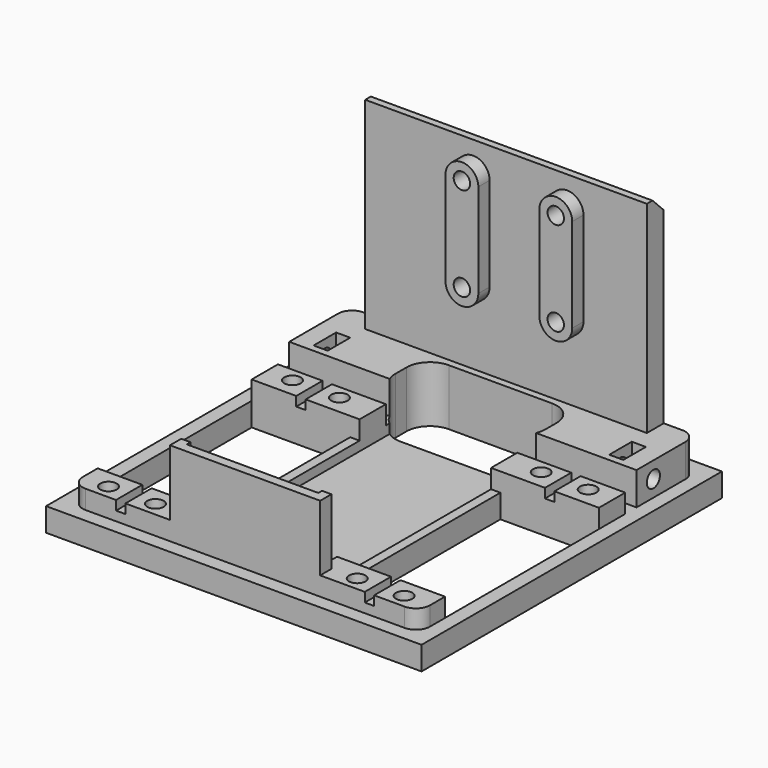
from build123d import *

# Parameters (mm, degrees)
SKETCH011_W             = 10
SKETCH011_H             = 4
PAD006_DEPTH            = 10
BOX020_W                = 6
BOX020_H                = 38
BOX020_DEPTH            = 68
CYLINDER016_R           = 1.75
CYLINDER016_DEPTH       = 31
CYLINDER016_PITCH_ANGLE = 90
CYLINDER017_R           = 1.75
CYLINDER017_DEPTH       = 31
CYLINDER017_PITCH_ANGLE = 90
CYLINDER015_R           = 1.75
CYLINDER015_DEPTH       = 31
CYLINDER015_PITCH_ANGLE = 90
CYLINDER024_R           = 1.75
CYLINDER024_DEPTH       = 31
CYLINDER024_PITCH_ANGLE = 90
PAD_DEPTH               = 5
BOX022_W                = 61
BOX022_H                = 28
BOX022_DEPTH            = 44
BOX021_W                = 13
BOX021_H                = 32
BOX021_DEPTH            = 17
FILLET003_R             = 5
BOX019_W                = 4.5
BOX019_H                = 60
BOX019_DEPTH            = 54
CYLINDER014_R           = 1.75
CYLINDER014_DEPTH       = 31
CYLINDER014_ROLL_ANGLE  = 90
CYLINDER013_R           = 1.75
CYLINDER013_DEPTH       = 31
CYLINDER013_ROLL_ANGLE  = 90
BOX016_W                = 6
BOX016_H                = 3
BOX016_DEPTH            = 12
BOX014_W                = 6
BOX014_H                = 3
BOX014_DEPTH            = 12
BOX015_W                = 16
BOX015_H                = 74
BOX015_DEPTH            = 12
BOX013_W                = 41
BOX013_H                = 21
BOX013_DEPTH            = 43
BOX012_W                = 41
BOX012_H                = 21
BOX012_DEPTH            = 43
CYLINDER006_R           = 1.75
CYLINDER006_DEPTH       = 21.5
CYLINDER006_PITCH_ANGLE = 90
CYLINDER007_R           = 3
CYLINDER007_DEPTH       = 21.5
CYLINDER007_PITCH_ANGLE = 90
FUSION007_PITCH_ANGLE   = 90
FUSION008_PITCH_ANGLE   = 90
FUSION006_PITCH_ANGLE   = 90
FUSION005_PITCH_ANGLE   = 90
BOX011_W                = 70
BOX011_H                = 2
BOX011_DEPTH            = 9
BOX010_W                = 7
BOX010_H                = 74
BOX010_DEPTH            = 9
BOX009_W                = 7
BOX009_H                = 74
BOX009_DEPTH            = 9
BOX008_W                = 80
BOX008_H                = 80
BOX008_DEPTH            = 5
BOX018_W                = 3
BOX018_H                = 32
BOX018_DEPTH            = 20
CHAMFER003_SIZE         = 3
FILLET006_R             = 3
CUT054_PLACEMENT_ANGLE  = -90


with BuildPart() as pad006:
    # Sketch011 → Pad006 (new body)
    with BuildSketch(Plane(origin=(70, 275, 66), x_dir=(0, 1, 0), z_dir=(0, 0, -1))):
        with Locations((-265.5, -19)):
            Rectangle(SKETCH011_W, SKETCH011_H)
        with Locations((-212.5, -19)):
            Rectangle(SKETCH011_W, SKETCH011_H)
        with Locations((-265.5, -68)):
            Rectangle(SKETCH011_W, SKETCH011_H)
        with Locations((-212.5, -68)):
            Rectangle(SKETCH011_W, SKETCH011_H)
    extrude(amount=PAD006_DEPTH)


with BuildPart() as cube035:
    # Box020 → Box020 (new body)
    with BuildSketch(Plane(origin=(-23.5, 17, 68), x_dir=(1, 0, 0), z_dir=(0, 0, 1))):
        with Locations((3, 19)):
            Rectangle(BOX020_W, BOX020_H)
    extrude(amount=BOX020_DEPTH)


with BuildPart() as cylinder094:
    # Cylinder016 → Cylinder016 (new body)
    with BuildSketch(Plane.XY):
        Circle(CYLINDER016_R)
    extrude(amount=CYLINDER016_DEPTH)


with BuildPart() as cylinder094_1:
    # Cylinder016 pitch: moved
    add(cylinder094.part.rotate(Axis((0, 0, 0), (0, 1, 0)), CYLINDER016_PITCH_ANGLE))


with BuildPart() as cylinder094_2:
    # Cylinder016 placement: moved
    add(cylinder094_1.part.moved(Location((-49.5, 49, 91.5))))


with BuildPart() as cylinder095:
    # Cylinder017 → Cylinder017 (new body)
    with BuildSketch(Plane.XY):
        Circle(CYLINDER017_R)
    extrude(amount=CYLINDER017_DEPTH)


with BuildPart() as cylinder095_1:
    # Cylinder017 pitch: moved
    add(cylinder095.part.rotate(Axis((0, 0, 0), (0, 1, 0)), CYLINDER017_PITCH_ANGLE))


with BuildPart() as cylinder095_2:
    # Cylinder017 placement: moved
    add(cylinder095_1.part.moved(Location((-49.5, 49, 111.5))))


with BuildPart() as cylinder093:
    # Cylinder015 → Cylinder015 (new body)
    with BuildSketch(Plane.XY):
        Circle(CYLINDER015_R)
    extrude(amount=CYLINDER015_DEPTH)


with BuildPart() as cylinder093_1:
    # Cylinder015 pitch: moved
    add(cylinder093.part.rotate(Axis((0, 0, 0), (0, 1, 0)), CYLINDER015_PITCH_ANGLE))


with BuildPart() as cylinder093_2:
    # Cylinder015 placement: moved
    add(cylinder093_1.part.moved(Location((-49.5, 29, 111.5))))


with BuildPart() as fusion020:
    # Cylinder024 → Cylinder024 (new body)
    with BuildSketch(Plane.XY):
        Circle(CYLINDER024_R)
    extrude(amount=CYLINDER024_DEPTH)


with BuildPart() as fusion020_1:
    # Cylinder024 pitch: moved
    add(fusion020.part.rotate(Axis((0, 0, 0), (0, 1, 0)), CYLINDER024_PITCH_ANGLE))


with BuildPart() as fusion020_2:
    # Cylinder024 placement: moved
    add(fusion020_1.part.moved(Location((-49.5, 29, 91.5))))

    # Fusion020: union Cylinder094, Cylinder095, Cylinder093
    add(cylinder094_2.part)
    add(cylinder095_2.part)
    add(cylinder093_2.part)


with BuildPart() as fusion020_3:
    # Fusion020 placement: moved
    add(fusion020_2.part.moved(Location((14, 0, 0))))


with BuildPart() as pad:
    # Sketch → Pad (new body)
    with BuildSketch(Plane(origin=(-22, 0, 0), x_dir=(0, -1, 0), z_dir=(-1, 0, 0))):
        with BuildLine():
            ThreePointArc((-45.5, 111.5), (-49, 115), (-52.5, 111.5))
            Line((-52.5, 111.5), (-52.5, 91.5))
            ThreePointArc((-52.5, 91.5), (-49, 88), (-45.5, 91.500001))
            Line((-45.5, 111.5), (-45.5, 91.500001))
        make_face()
    extrude(amount=-PAD_DEPTH)


with BuildPart() as clone_of_pad:
    # Clone001 base: copy of Pad
    add(pad.part)


with BuildPart() as clone_of_pad_1:
    # Clone001 placement: moved
    add(clone_of_pad.part.moved(Location((0, -20, 0))))


with BuildPart() as fusion021:
    # Fusion021 base: copy of Pad
    add(pad.part)

    # Fusion021: union Clone of Pad
    add(clone_of_pad_1.part)


with BuildPart() as fusion021_1:
    # Fusion021 placement: moved
    add(fusion021.part.moved(Location((4.5, 0, 0))))


with BuildPart() as cube036:
    # Box022 → Box022 (new body)
    with BuildSketch(Plane(origin=(-9, 22, 66), x_dir=(1, 0, 0), z_dir=(0, 0, 1))):
        with Locations((30.5, 14)):
            Rectangle(BOX022_W, BOX022_H)
    extrude(amount=BOX022_DEPTH)


with BuildPart() as fillet003:
    # Box021 → Box021 (new body)
    with BuildSketch(Plane(origin=(-14, 20, 62), x_dir=(1, 0, 0), z_dir=(0, 0, 1))):
        with Locations((6.5, 16)):
            Rectangle(BOX021_W, BOX021_H)
    extrude(amount=BOX021_DEPTH)

    # Fillet003
    fillet003_edges = [fillet003.edges().sort_by_distance(p)[0] for p in [
        (-14, 20, 70.5),
        (-14, 52, 70.5),
        (-1, 20, 70.5),
        (-1, 52, 70.5),
    ]]
    fillet(fillet003_edges, radius=FILLET003_R)


with BuildPart() as cube033:
    # Box019 → Box019 (new body)
    with BuildSketch(Plane(origin=(-20, 6, 64), x_dir=(1, 0, 0), z_dir=(0, 0, 1))):
        with Locations((2.25, 30)):
            Rectangle(BOX019_W, BOX019_H)
    extrude(amount=BOX019_DEPTH)


with BuildPart() as cylinder001:
    # Cylinder014 → Cylinder014 (new body)
    with BuildSketch(Plane.XY):
        Circle(CYLINDER014_R)
    extrude(amount=CYLINDER014_DEPTH)


with BuildPart() as cylinder001_1:
    # Cylinder014 roll: moved
    add(cylinder001.part.rotate(Axis((0, 0, 0), (1, 0, 0)), CYLINDER014_ROLL_ANGLE))


with BuildPart() as cylinder001_2:
    # Cylinder014 placement: moved
    add(cylinder001_1.part.moved(Location((-8.5, 11, 71.5))))


with BuildPart() as cylinder055:
    # Cylinder013 → Cylinder013 (new body)
    with BuildSketch(Plane.XY):
        Circle(CYLINDER013_R)
    extrude(amount=CYLINDER013_DEPTH)


with BuildPart() as cylinder055_1:
    # Cylinder013 roll: moved
    add(cylinder055.part.rotate(Axis((0, 0, 0), (1, 0, 0)), CYLINDER013_ROLL_ANGLE))


with BuildPart() as cylinder055_2:
    # Cylinder013 placement: moved
    add(cylinder055_1.part.moved(Location((-8.5, 92, 71.5))))


with BuildPart() as cube018:
    # Box016 → Box016 (new body)
    with BuildSketch(Plane(origin=(-11.5, 66, 69), x_dir=(1, 0, 0), z_dir=(0, 0, 1))):
        with Locations((3, 1.5)):
            Rectangle(BOX016_W, BOX016_H)
    extrude(amount=BOX016_DEPTH)


with BuildPart() as cube016:
    # Box014 → Box014 (new body)
    with BuildSketch(Plane(origin=(-11.5, 3, 69), x_dir=(1, 0, 0), z_dir=(0, 0, 1))):
        with Locations((3, 1.5)):
            Rectangle(BOX014_W, BOX014_H)
    extrude(amount=BOX014_DEPTH)


with BuildPart() as cube017:
    # Box015 → Box015 (new body)
    with BuildSketch(Plane(origin=(-20, -1, 63), x_dir=(1, 0, 0), z_dir=(0, 0, 1))):
        with Locations((8, 37)):
            Rectangle(BOX015_W, BOX015_H)
    extrude(amount=BOX015_DEPTH)


with BuildPart() as cube015:
    # Box013 → Box013 (new body)
    with BuildSketch(Plane(origin=(6, 52, 59), x_dir=(1, 0, 0), z_dir=(0, 0, 1))):
        with Locations((20.5, 10.5)):
            Rectangle(BOX013_W, BOX013_H)
    extrude(amount=BOX013_DEPTH)


with BuildPart() as cube014:
    # Box012 → Box012 (new body)
    with BuildSketch(Plane(origin=(6, -1, 59), x_dir=(1, 0, 0), z_dir=(0, 0, 1))):
        with Locations((20.5, 10.5)):
            Rectangle(BOX012_W, BOX012_H)
    extrude(amount=BOX012_DEPTH)


with BuildPart() as joint_d010:
    # Cylinder006 → Cylinder006 (new body)
    with BuildSketch(Plane.XY):
        Circle(CYLINDER006_R)
    extrude(amount=CYLINDER006_DEPTH)


with BuildPart() as joint_d010_1:
    # Cylinder006 pitch: moved
    add(joint_d010.part.rotate(Axis((0, 0, 0), (0, 1, 0)), CYLINDER006_PITCH_ANGLE))


with BuildPart() as joint_d010_2:
    # Cylinder006 placement: moved
    add(joint_d010_1.part.moved(Location((16, -24.5, 7))))


with BuildPart() as joint_d011:
    # Cylinder007 → Cylinder007 (new body)
    with BuildSketch(Plane.XY):
        Circle(CYLINDER007_R)
    extrude(amount=CYLINDER007_DEPTH)


with BuildPart() as joint_d011_1:
    # Cylinder007 pitch: moved
    add(joint_d011.part.rotate(Axis((0, 0, 0), (0, 1, 0)), CYLINDER007_PITCH_ANGLE))


with BuildPart() as joint_d011_2:
    # Cylinder007 placement: moved
    add(joint_d011_1.part.moved(Location((32, -24.5, 7))))


with BuildPart() as fusion007:
    # Fusion007 base: copy of Joint-D011
    add(joint_d011_2.part)

    # Fusion007: union Joint-D010
    add(joint_d010_2.part)


with BuildPart() as fusion007_1:
    # Fusion007 pitch: moved
    add(fusion007.part.rotate(Axis((0, 0, 0), (0, 1, 0)), FUSION007_PITCH_ANGLE))


with BuildPart() as fusion007_2:
    # Fusion007 placement: moved
    add(fusion007_1.part.moved(Location((-5, 39, 98))))


with BuildPart() as fusion008:
    # Fusion008 base: copy of Joint-D011
    add(joint_d011_2.part)

    # Fusion008: union Joint-D010
    add(joint_d010_2.part)


with BuildPart() as fusion008_1:
    # Fusion008 pitch: moved
    add(fusion008.part.rotate(Axis((0, 0, 0), (0, 1, 0)), FUSION008_PITCH_ANGLE))


with BuildPart() as fusion008_2:
    # Fusion008 placement: moved
    add(fusion008_1.part.moved(Location((-5, 29, 98))))


with BuildPart() as fusion006:
    # Fusion006 base: copy of Joint-D011
    add(joint_d011_2.part)

    # Fusion006: union Joint-D010
    add(joint_d010_2.part)


with BuildPart() as fusion006_1:
    # Fusion006 pitch: moved
    add(fusion006.part.rotate(Axis((0, 0, 0), (0, 1, 0)), FUSION006_PITCH_ANGLE))


with BuildPart() as fusion006_2:
    # Fusion006 placement: moved
    add(fusion006_1.part.moved(Location((44, 29, 98))))


with BuildPart() as fusion005:
    # Fusion005 base: copy of Joint-D011
    add(joint_d011_2.part)

    # Fusion005: union Joint-D010
    add(joint_d010_2.part)


with BuildPart() as fusion005_1:
    # Fusion005 pitch: moved
    add(fusion005.part.rotate(Axis((0, 0, 0), (0, 1, 0)), FUSION005_PITCH_ANGLE))


with BuildPart() as fusion005_2:
    # Fusion005 placement: moved
    add(fusion005_1.part.moved(Location((44, 39, 98))))


with BuildPart() as cube012:
    # Box011 → Box011 (new body)
    with BuildSketch(Plane(origin=(-6, 8.5, 70), x_dir=(1, 0, 0), z_dir=(0, 0, 1))):
        with Locations((35, 1)):
            Rectangle(BOX011_W, BOX011_H)
    extrude(amount=BOX011_DEPTH)


with BuildPart() as fusion009:
    # Fusion009 base: copy of Cube012
    add(cube012.part)

    # Fusion009: union Fusion007, Fusion008, Fusion006, Fusion005
    add(fusion007_2.part)
    add(fusion008_2.part)
    add(fusion006_2.part)
    add(fusion005_2.part)


with BuildPart() as fusion010:
    # Fusion010 base: copy of Cube012
    add(cube012.part)

    # Fusion010: union Fusion007, Fusion008, Fusion006, Fusion005
    add(fusion007_2.part)
    add(fusion008_2.part)
    add(fusion006_2.part)
    add(fusion005_2.part)


with BuildPart() as fusion010_1:
    # Fusion010 placement: moved
    add(fusion010.part.moved(Location((0, 53, 0))))


with BuildPart() as cube011:
    # Box010 → Box010 (new body)
    with BuildSketch(Plane(origin=(47, -1, 63), x_dir=(1, 0, 0), z_dir=(0, 0, 1))):
        with Locations((3.5, 37)):
            Rectangle(BOX010_W, BOX010_H)
    extrude(amount=BOX010_DEPTH)


with BuildPart() as cube010:
    # Box009 → Box009 (new body)
    with BuildSketch(Plane(origin=(-1, -1, 63), x_dir=(1, 0, 0), z_dir=(0, 0, 1))):
        with Locations((3.5, 37)):
            Rectangle(BOX009_W, BOX009_H)
    extrude(amount=BOX009_DEPTH)


with BuildPart() as cut029:
    # Box008 → Box008 (new body)
    with BuildSketch(Plane(origin=(-23, -4, 63), x_dir=(1, 0, 0), z_dir=(0, 0, 1))):
        with Locations((40, 40)):
            Rectangle(BOX008_W, BOX008_H)
    extrude(amount=BOX008_DEPTH)

    # Fusion011: union Cube011, Cube010
    add(cube011.part)
    add(cube010.part)

    # Cut016: cut Fusion010
    add(fusion010_1.part, mode=Mode.SUBTRACT)

    # Cut017: cut Fusion009
    add(fusion009.part, mode=Mode.SUBTRACT)

    # Cut018: cut Cube014
    add(cube014.part, mode=Mode.SUBTRACT)

    # Cut019: cut Cube015
    add(cube015.part, mode=Mode.SUBTRACT)

    # Fusion012: union Cube017
    add(cube017.part)

    # Cut020: cut Cube016
    add(cube016.part, mode=Mode.SUBTRACT)

    # Cut021: cut Cube018
    add(cube018.part, mode=Mode.SUBTRACT)

    # Cut028: cut Cylinder055
    add(cylinder055_2.part, mode=Mode.SUBTRACT)

    # Cut029: cut Cylinder001
    add(cylinder001_2.part, mode=Mode.SUBTRACT)


with BuildPart() as obj1:
    # Box018 → Box018 (new body)
    with BuildSketch(Plane(origin=(51, 20, 66), x_dir=(1, 0, 0), z_dir=(0, 0, 1))):
        with Locations((1.5, 16)):
            Rectangle(BOX018_W, BOX018_H)
    extrude(amount=BOX018_DEPTH)

    # Fusion016: union Cut029
    add(cut029.part)

    # Fusion017: union Cube033
    add(cube033.part)

    # Cut030: cut Fillet003
    add(fillet003.part, mode=Mode.SUBTRACT)

    # Cut031: cut Cube036
    add(cube036.part, mode=Mode.SUBTRACT)

    # Chamfer003
    chamfer003_edges = [obj1.edges().sort_by_distance(p)[0] for p in [
        (-20, 36, 118),
    ]]
    chamfer(chamfer003_edges, length=CHAMFER003_SIZE)

    # Fusion022: union Fusion021
    add(fusion021_1.part)

    # Cut032: cut Fusion020
    add(fusion020_3.part, mode=Mode.SUBTRACT)

    # Cut033: cut Cube035
    add(cube035.part, mode=Mode.SUBTRACT)

    # Fillet006
    fillet006_edges = [obj1.edges().sort_by_distance(p)[0] for p in [
        (-20, -1, 71.5),
        (-20, 73, 71.5),
        (54, -1, 70),
        (54, 73, 70),
    ]]
    fillet(fillet006_edges, radius=FILLET006_R)

    # Cut054: cut Pad006
    add(pad006.part, mode=Mode.SUBTRACT)


with BuildPart() as obj1_1:
    # Cut054 placement: moved
    add(obj1.part.moved(Location((-275, 70, 2))).rotate(Axis((-275, 70, 2), (0, 0, 1)), CUT054_PLACEMENT_ANGLE))


solid = obj1_1.part
